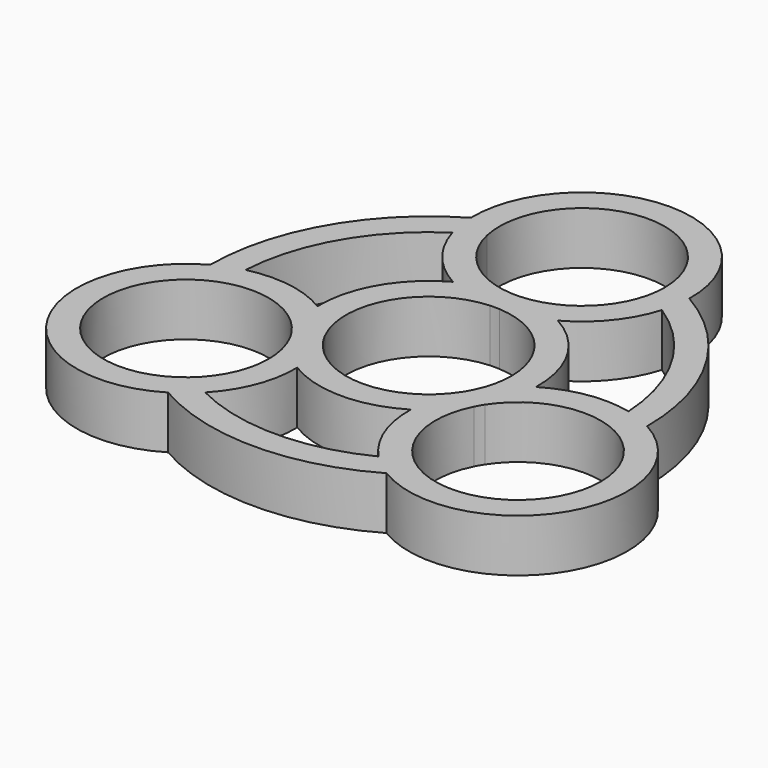
from build123d import *

# Parameters (mm, degrees)
F1_DEPTH = 7


with BuildPart() as f1:
    # F0 (on Top) → F1 (new body)
    with BuildSketch(Plane.XY):
        with BuildLine():
            ThreePointArc((-14.513492, -25.138105), (0, -29.026983), (14.513492, -25.138105))
            ThreePointArc((14.513492, -25.138105), (34.630891, -19.994154), (29.026983, 0))
            ThreePointArc((29.026983, 0), (25.138105, 14.513492), (14.513492, 25.138105))
            ThreePointArc((14.513492, 25.138105), (0, 39.988309), (-14.513492, 25.138105))
            ThreePointArc((-14.513492, 25.138105), (-25.138105, 14.513492), (-29.026983, 0))
            ThreePointArc((-29.026983, 0), (-34.630891, -19.994154), (-14.513492, -25.138105))
        make_face()
        with BuildLine():
            ThreePointArc((-12.245232, -7.797855), (-11.370099, -10.198061), (-11.073033, -12.7355))
            ThreePointArc((-11.073033, -12.7355), (-32.583708, -15.88223), (-12.875757, -6.705754))
            ThreePointArc((-12.875757, -6.705754), (-12.544811, -7.24275), (-12.245232, -7.797855))
        make_face(mode=Mode.SUBTRACT)
        with BuildLine():
            ThreePointArc((11.518028, -22.717985), (0, -25.471), (-11.518028, -22.717985))
            ThreePointArc((-11.518028, -22.717985), (-8.511303, -17.953239), (-7.545041, -12.402605))
            ThreePointArc((-7.545041, -12.402605), (0, -14.517309), (7.545041, -12.402605))
            ThreePointArc((7.545041, -12.402605), (8.511303, -17.953239), (11.518028, -22.717985))
        make_face(mode=Mode.SUBTRACT)
        with BuildLine():
            ThreePointArc((12.875757, -6.705754), (25.205263, -2.210325), (33.044033, -12.7355))
            ThreePointArc((33.044033, -12.7355), (19.521094, -23.423934), (12.245232, -7.797855))
            ThreePointArc((12.245232, -7.797855), (12.544811, -7.24275), (12.875757, -6.705754))
        make_face(mode=Mode.SUBTRACT)
        with BuildLine():
            ThreePointArc((0.630525, 10.96739), (7.987736, 7.541703), (10.9855, 0))
            ThreePointArc((10.9855, 0), (10.688434, -2.537439), (9.813301, -4.937645))
            ThreePointArc((9.813301, -4.937645), (9.513722, -5.49275), (9.182776, -6.029746))
            ThreePointArc((9.182776, -6.029746), (0, -10.9855), (-9.182776, -6.029746))
            ThreePointArc((-9.182776, -6.029746), (-9.513722, -5.49275), (-9.813301, -4.937645))
            ThreePointArc((-9.813301, -4.937645), (-9.513722, 5.49275), (-0.630525, 10.96739))
            ThreePointArc((-0.630525, 10.96739), (0, 10.9855), (0.630525, 10.96739))
        make_face(mode=Mode.SUBTRACT)
        with BuildLine():
            ThreePointArc((-25.433367, 1.384088), (-22.058533, 12.7355), (-13.915338, 21.333898))
            ThreePointArc((-13.915338, 21.333898), (-11.29231, 16.347624), (-6.96845, 12.7355))
            ThreePointArc((-6.96845, 12.7355), (-12.572358, 7.258654), (-14.513492, -0.332895))
            ThreePointArc((-14.513492, -0.332895), (-19.803613, 1.605615), (-25.433367, 1.384088))
        make_face(mode=Mode.SUBTRACT)
        with BuildLine():
            ThreePointArc((13.915338, 21.333898), (22.058533, 12.7355), (25.433367, 1.384088))
            ThreePointArc((25.433367, 1.384088), (19.803613, 1.605615), (14.513492, -0.332895))
            ThreePointArc((14.513492, -0.332895), (12.572358, 7.258654), (6.96845, 12.7355))
            ThreePointArc((6.96845, 12.7355), (11.29231, 16.347624), (13.915338, 21.333898))
        make_face(mode=Mode.SUBTRACT)
        with BuildLine():
            ThreePointArc((-10.727026, 23.102008), (-1.191526, 36.39169), (10.9855, 25.471))
            ThreePointArc((10.9855, 25.471), (7.987736, 17.929297), (0.630525, 14.50361))
            ThreePointArc((0.630525, 14.50361), (0, 14.4855), (-0.630525, 14.50361))
            ThreePointArc((-0.630525, 14.50361), (-7.122612, 17.107412), (-10.727026, 23.102008))
        make_face(mode=Mode.SUBTRACT)
    extrude(amount=F1_DEPTH)


solid = f1.part
